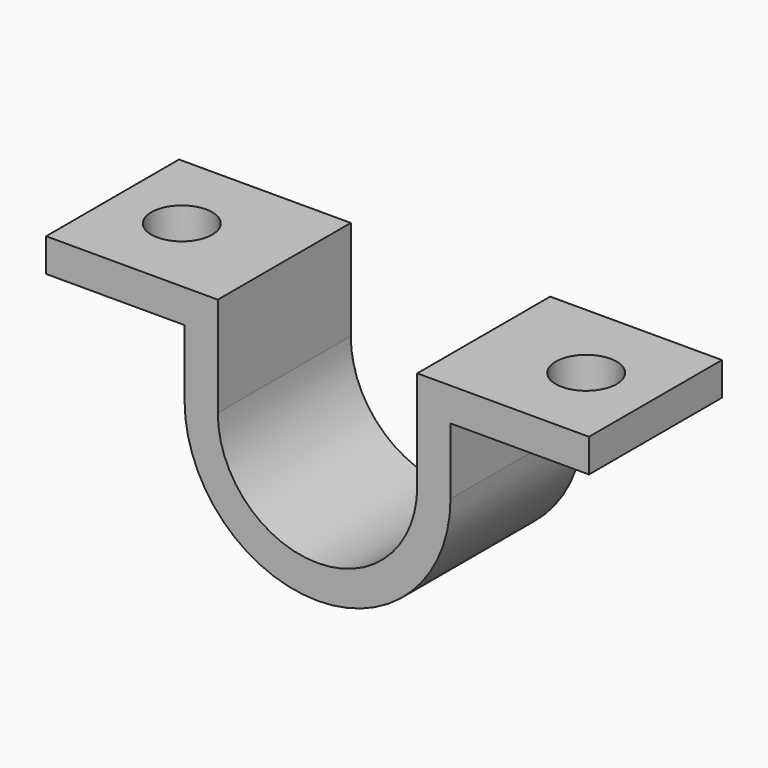
from build123d import *

# Parameters (mm, degrees)
F1_DEPTH = 15
F2_R     = 2.75
F3_DEPTH = 25


with BuildPart() as f1:
    # F0 (on Front) → F1 (new body)
    with BuildSketch(Plane.XZ):
        with BuildLine():
            ThreePointArc((9, 0), (0, -9), (-9, 0))
            Line((-9, 0), (-9, 9))
            Line((-9, 9), (-12, 9))
            Line((-12, 9), (-24.5, 9))
            Line((-24.5, 9), (-24.5, 6))
            Line((-24.5, 6), (-12, 6))
            Line((-12, 6), (-12, 0))
            ThreePointArc((-12, 0), (0, -12), (12, 0))
            Line((12, 0), (12, 6))
            Line((12, 6), (24.5, 6))
            Line((24.5, 6), (24.5, 9))
            Line((24.5, 9), (12, 9))
            Line((12, 9), (9, 9))
            Line((9, 9), (9, 0))
        make_face()
    extrude(amount=F1_DEPTH)

    # F2 (on face) → F3 (cut)
    with BuildSketch(Plane(origin=(0, 0, 6), x_dir=(1, 0, 0), z_dir=(0, 0, -1))):
        with Locations((18.25, 7.5)):
            Circle(F2_R)
        with Locations((-18.25, 7.5)):
            Circle(F2_R)
    extrude(amount=-F3_DEPTH, mode=Mode.SUBTRACT)


solid = f1.part
